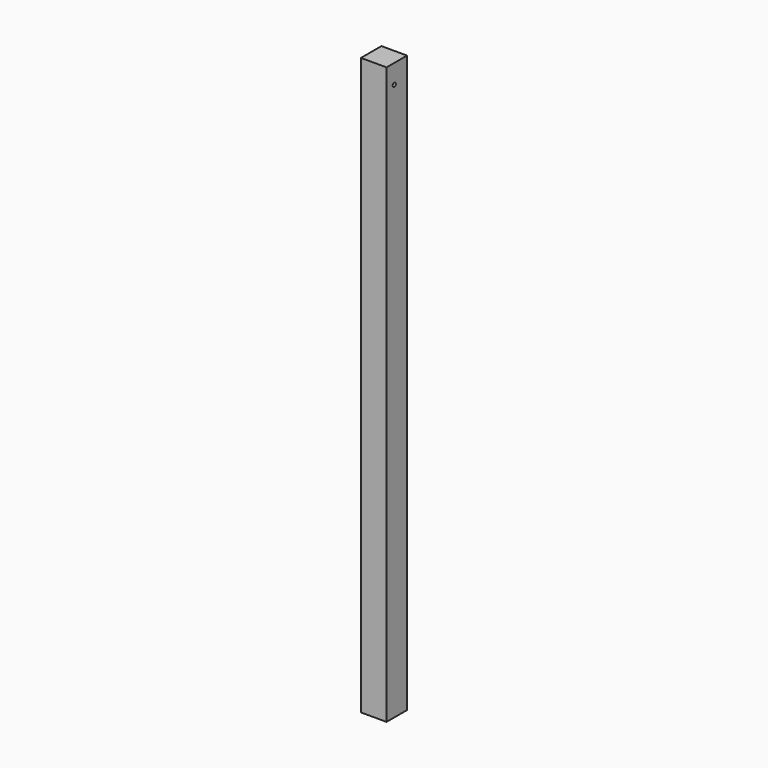
from build123d import *

# Parameters (mm, degrees)
F0_W     = 40
F0_H     = 40
F1_DEPTH = 900
F2_R     = 3
F3_DEPTH = 12
F4_R     = 3
F5_DEPTH = 12


with BuildPart() as f1:
    # F0 (on Top) → F1 (new body)
    with BuildSketch(Plane.XY):
        with Locations((20, 20)):
            Rectangle(F0_W, F0_H)
    extrude(amount=F1_DEPTH)

    # F2 (on face) → F3 (cut)
    with BuildSketch(Plane.YZ.offset(40)):
        with Locations((15, 870)):
            Circle(F2_R)
    extrude(amount=-F3_DEPTH, mode=Mode.SUBTRACT)

    # F4 (on face) → F5 (cut)
    with BuildSketch(Plane(origin=(0, 40, 0), x_dir=(-1, 0, 0), z_dir=(0, 1, 0))):
        with Locations((-15, 870)):
            Circle(F4_R)
    extrude(amount=-F5_DEPTH, mode=Mode.SUBTRACT)


solid = f1.part
